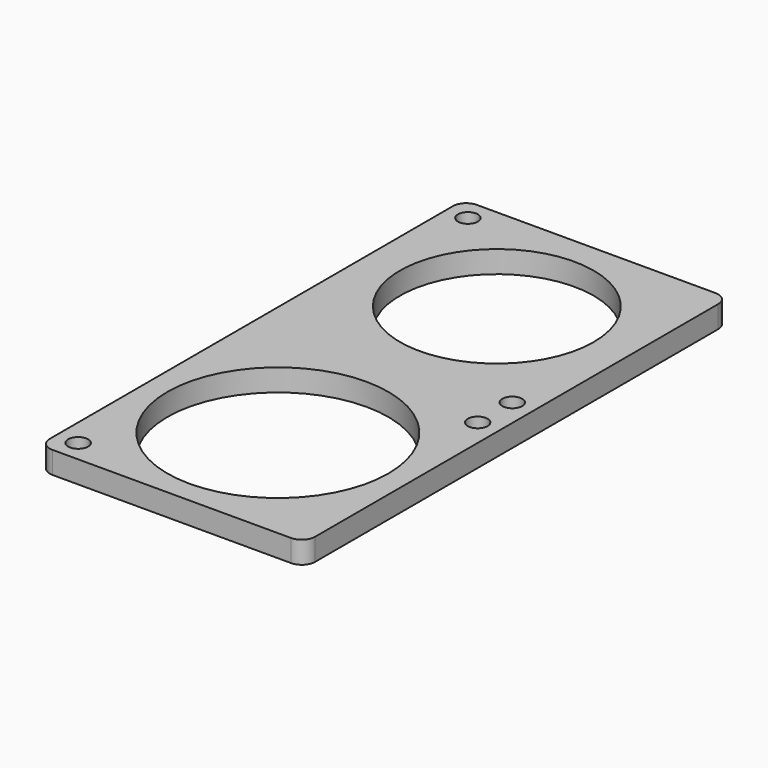
from build123d import *

# Parameters (mm, degrees)
F0_R     = 25
F0_R_2   = 21.905378
F1_DEPTH = 5
F2_R     = 2.25
F3_DEPTH = 25


with BuildPart() as f1:
    # F0 (on Top) → F1 (new body)
    with BuildSketch(Plane.XY):
        with BuildLine():
            Line((57, 0), (3, 0))
            ThreePointArc((3, 0), (0.87868, -0.87868), (0, -3))
            Line((0, -3), (0, -117))
            ThreePointArc((0, -117), (0.87868, -119.12132), (3, -120))
            Line((3, -120), (57, -120))
            ThreePointArc((57, -120), (59.12132, -119.12132), (60, -117))
            Line((60, -117), (60, -3))
            ThreePointArc((60, -3), (59.12132, -0.87868), (57, 0))
        make_face()
        with Locations((30, -90)):
            Circle(F0_R, mode=Mode.SUBTRACT)
        with Locations((30, -28.094622)):
            Circle(F0_R_2, mode=Mode.SUBTRACT)
    extrude(amount=F1_DEPTH)

    # F2 (on face) → F3 (cut)
    with BuildSketch(Plane.XY.offset(5)):
        with Locations((4.897709, -115.102291)):
            Circle(F2_R)
        with Locations((55.102291, -64.897709)):
            Circle(F2_R)
        with Locations((55.102291, -55.102291)):
            Circle(F2_R)
        with Locations((4.897709, -4.897709)):
            Circle(F2_R)
    extrude(amount=-F3_DEPTH, mode=Mode.SUBTRACT)


solid = f1.part
